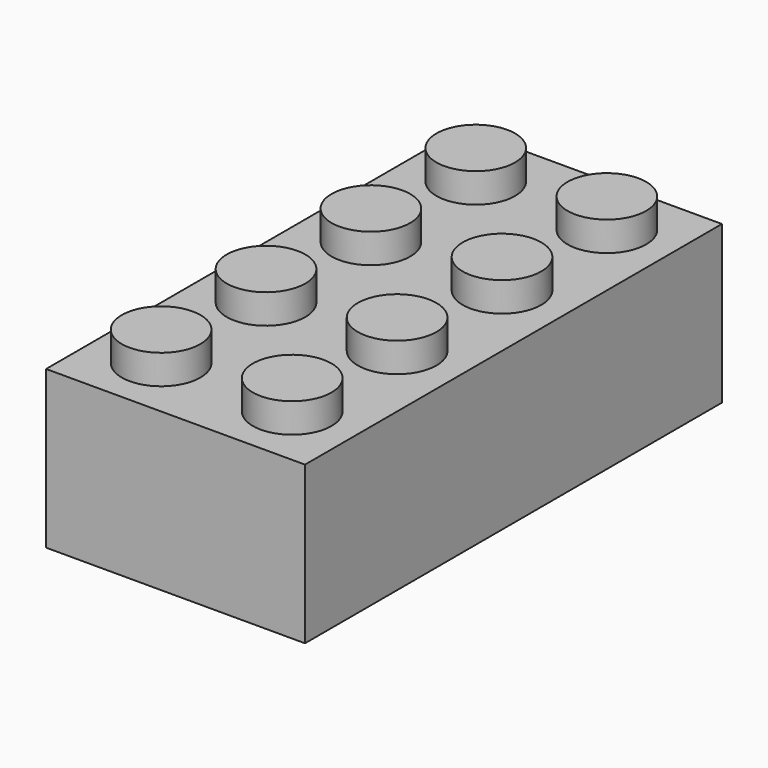
from build123d import *

# Parameters (mm, degrees)
F0_W     = 401.32
F0_H     = 243.84
F1_DEPTH = 807.72
F2_R     = 60.96
F3_DEPTH = 45.72
F4_W     = 340.36
F4_H     = 746.76
F5_DEPTH = 213.36
F6_R     = 82.55
F6_R_2   = 60.96
F7_DEPTH = 213.36


with BuildPart() as f1:
    # F0 (on Front) → F1 (new body)
    with BuildSketch(Plane.XZ):
        Rectangle(F0_W, F0_H)
    extrude(amount=F1_DEPTH)

    # F2 (on face) → F3 (join)
    with BuildSketch(Plane.XY.offset(121.92)):
        with Locations((-101.6, -708.66)):
            Circle(F2_R)
        with Locations((-101.6, -505.46)):
            Circle(F2_R)
        with Locations((-101.6, -302.26)):
            Circle(F2_R)
        with Locations((-101.6, -99.06)):
            Circle(F2_R)
        with Locations((101.6, -708.66)):
            Circle(F2_R)
        with Locations((101.6, -505.46)):
            Circle(F2_R)
        with Locations((101.6, -302.26)):
            Circle(F2_R)
        with Locations((101.6, -99.06)):
            Circle(F2_R)
    extrude(amount=F3_DEPTH)

    # F4 (on face) → F5 (cut)
    with BuildSketch(Plane(origin=(0, 0, -121.92), x_dir=(1, 0, 0), z_dir=(0, 0, -1))):
        with Locations((0, 403.86)):
            Rectangle(F4_W, F4_H)
    extrude(amount=-F5_DEPTH, mode=Mode.SUBTRACT)

    # F6 (on face) → F7 (join)
    with BuildSketch(Plane(origin=(0, 0, 91.44), x_dir=(1, 0, 0), z_dir=(0, 0, -1))):
        with Locations((0, 605.963527)):
            Circle(F6_R)
        with Locations((0, 605.963527)):
            Circle(F6_R_2, mode=Mode.SUBTRACT)
        with Locations((0, 402.763527)):
            Circle(F6_R)
        with Locations((0, 402.763527)):
            Circle(F6_R_2, mode=Mode.SUBTRACT)
        with Locations((0, 199.563527)):
            Circle(F6_R)
        with Locations((0, 199.563527)):
            Circle(F6_R_2, mode=Mode.SUBTRACT)
    extrude(amount=F7_DEPTH)


solid = f1.part
